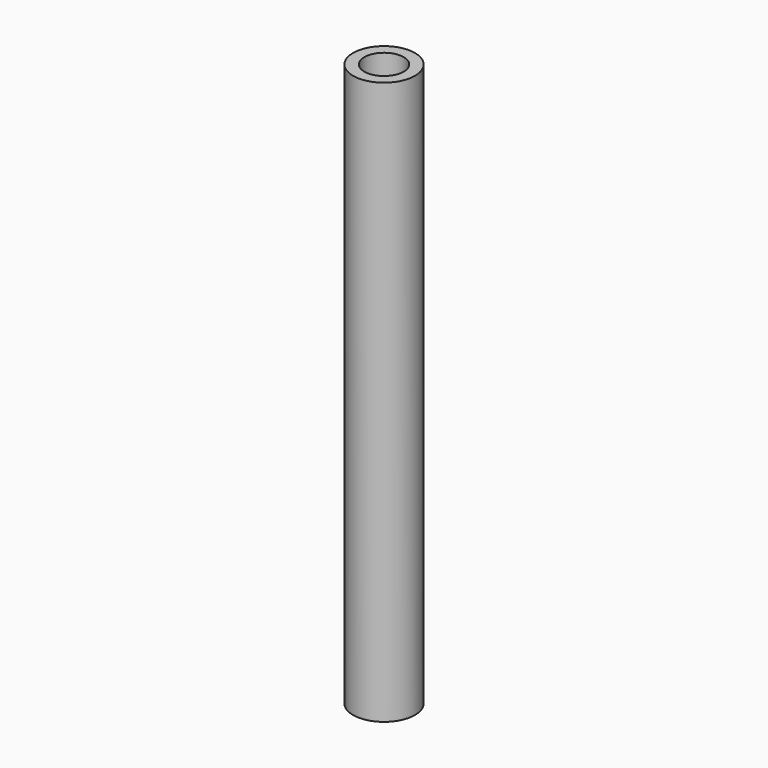
from build123d import *

# Parameters (mm, degrees)
F0_R     = 2.75
F2_DEPTH = 50
F1_R     = 1.75
F3_DEPTH = 50


with BuildPart() as f2:
    # F0 (on Top) → F2 (new body)
    with BuildSketch(Plane.XY):
        Circle(F0_R)
    extrude(amount=F2_DEPTH)

    # F1 (on face) → F3 (cut)
    with BuildSketch(Plane.XY):
        Circle(F1_R)
    extrude(amount=F3_DEPTH, mode=Mode.SUBTRACT)


solid = f2.part
